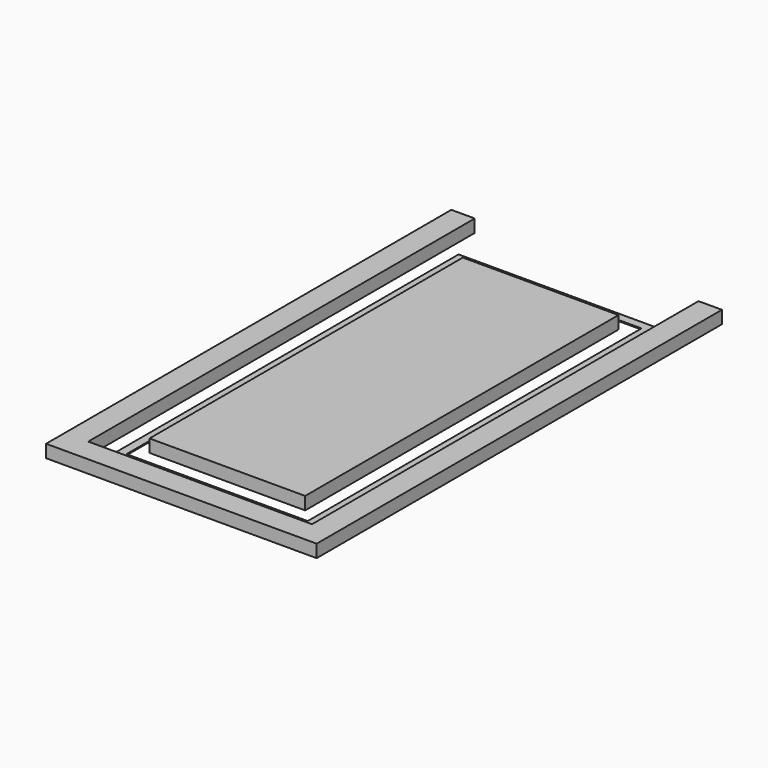
from build123d import *

# Parameters (mm, degrees)
F0_W     = 3656.338
F0_H     = 9200
F1_DEPTH = 300
F2_W     = 6356.338
F2_H     = 11900
F2_W_2   = 5256.338
F2_H_2   = 10800
F3_DEPTH = 300
F0_W_2   = 4656.338
F0_H_2   = 10200
F0_W_3   = 4256.338
F0_H_3   = 9800
F4_DEPTH = 25
F5_W     = 5256.338
F5_H     = 300
F6_DEPTH = 550.001


with BuildPart() as f1:
    # F0 (on Top) → F1 (new body)
    with BuildSketch(Plane.XY):
        with Locations((2128.169, 4900)):
            Rectangle(F0_W, F0_H)
    extrude(amount=F1_DEPTH)


with BuildPart() as f3:
    # F2 (on face) → F3 (new body)
    with BuildSketch(Plane.XY):
        with Locations((2128.169, 4900)):
            Rectangle(F2_W, F2_H)
        with Locations((2128.169, 4900)):
            Rectangle(F2_W_2, F2_H_2, mode=Mode.SUBTRACT)
    extrude(amount=F3_DEPTH)

    # F5 (on face) → F6 (cut, through all)
    with BuildSketch(Plane.XZ.offset(-10300)):
        with Locations((2128.169, 150)):
            Rectangle(F5_W, F5_H)
    extrude(amount=-F6_DEPTH, mode=Mode.SUBTRACT)


with BuildPart() as f4:
    # F0 (on Top) → F4 (new body)
    with BuildSketch(Plane.XY):
        with Locations((2128.169, 4900)):
            Rectangle(F0_W_2, F0_H_2)
        with Locations((2128.169, 4900)):
            Rectangle(F0_W_3, F0_H_3, mode=Mode.SUBTRACT)
    extrude(amount=-F4_DEPTH)


solid = Compound([f1.part, f3.part, f4.part])
